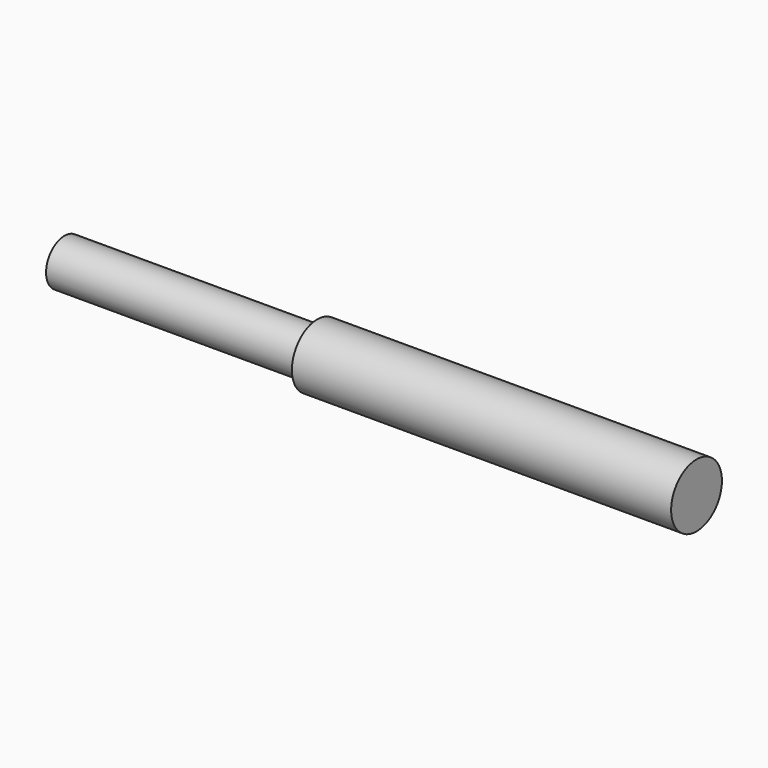
from build123d import *

# Parameters (mm, degrees)
F0_R     = 63.76209
F1_DEPTH = 1270
F2_R     = 63.836197
F2_R_2   = 46.271455
F3_DEPTH = 508


with BuildPart() as f1:
    # F0 (on Right) → F1 (new body)
    with BuildSketch(Plane.YZ):
        Circle(F0_R)
    extrude(amount=F1_DEPTH)

    # F2 (on Right) → F3 (cut)
    with BuildSketch(Plane.YZ):
        Circle(F2_R)
        Circle(F2_R_2, mode=Mode.SUBTRACT)
    extrude(amount=F3_DEPTH, mode=Mode.SUBTRACT)


solid = f1.part
